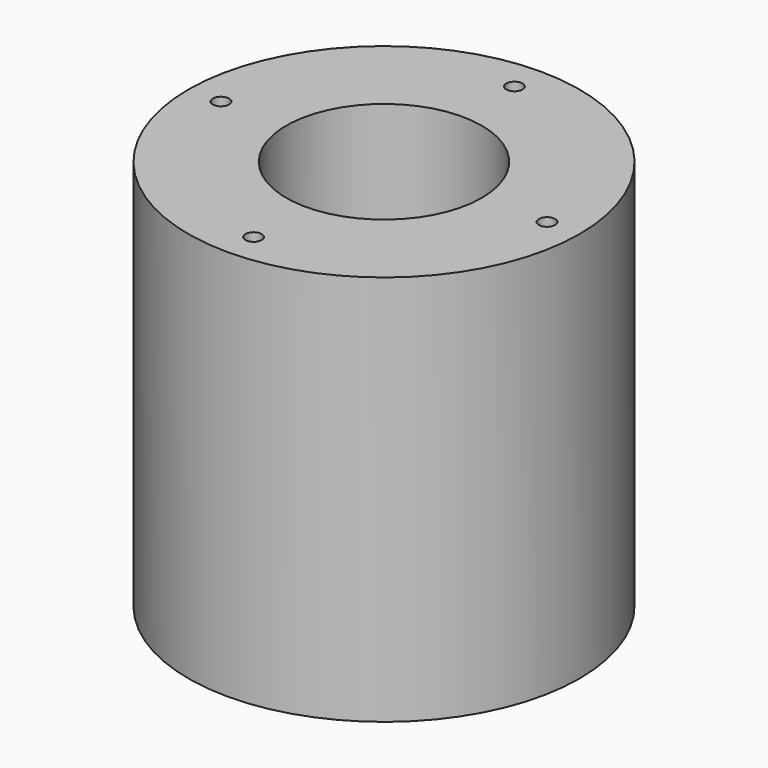
from build123d import *

# Parameters (mm, degrees)
SKETCH_R   = 6
SKETCH_R_2 = 3
SKETCH_R_3 = 0.25
PAD_DEPTH  = 12


with BuildPart() as part:
    # Sketch → Pad (new body)
    with BuildSketch(Plane.XY):
        Circle(SKETCH_R)
        Circle(SKETCH_R_2, mode=Mode.SUBTRACT)
        with Locations((-5, 0)):
            Circle(SKETCH_R_3, mode=Mode.SUBTRACT)
        with Locations((5, 0)):
            Circle(SKETCH_R_3, mode=Mode.SUBTRACT)
        with Locations((0, 5)):
            Circle(SKETCH_R_3, mode=Mode.SUBTRACT)
        with Locations((0, -5)):
            Circle(SKETCH_R_3, mode=Mode.SUBTRACT)
    extrude(amount=PAD_DEPTH)


solid = part.part
